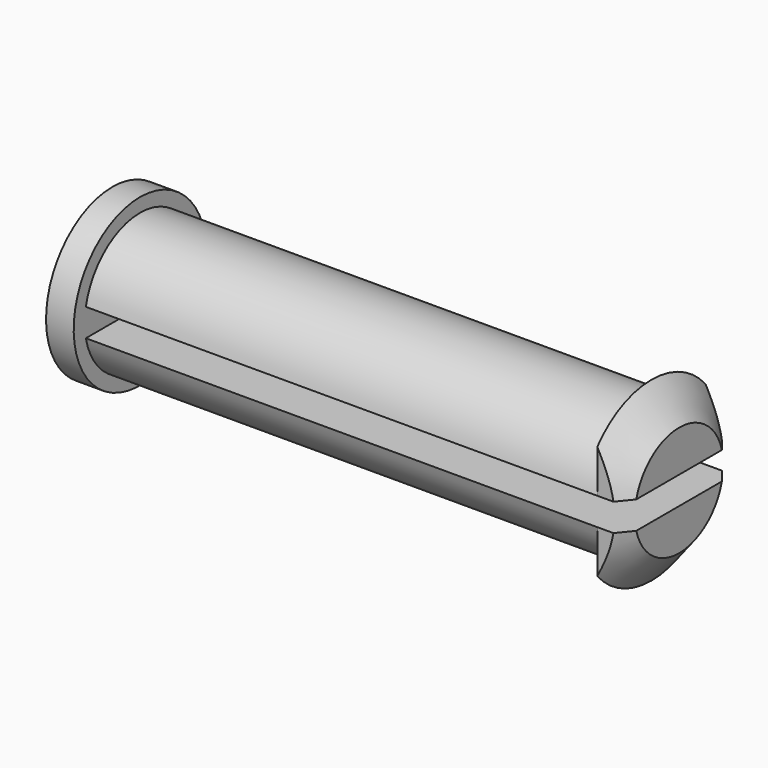
from build123d import *

# Parameters (mm, degrees)
SKETCH009_W     = 7.72
SKETCH009_H     = 1
POCKET001_DEPTH = 26
POCKET002_DEPTH = 25


with BuildPart() as part:
    # Sketch008 → Revolution (revolve)
    with BuildSketch(Plane.XZ):
        Polygon((-1, 0), (-1, 3), (0, 3), (0, 2.5), (18.5, 2.5), (18.5, 3.2), (19.5, 2), (19.5, 0), align=None)
    revolve(axis=Axis((0, 0, 0), (1, 0, 0)))

    # Sketch009 → Pocket001 (cut)
    with BuildSketch(Plane.YZ):
        Rectangle(SKETCH009_W, SKETCH009_H)
    extrude(amount=POCKET001_DEPTH, mode=Mode.SUBTRACT)

    # Sketch010 → Pocket002 (cut, symmetric)
    with BuildSketch(Plane.XY):
        Polygon((15.1, 2.44949), (23.12, 2.44949), (23.12, -2.44949), (15.1, -2.44949), (15.1, -3.86051), (30.32, -3.86051), (30.32, 7.01949), (15.1, 7.01949), align=None)
    extrude(amount=POCKET002_DEPTH, both=True, mode=Mode.SUBTRACT)


with BuildPart() as part_1:
    # Body002 placement: moved
    add(part.part.moved(Location((-9.25, -10.5, 11.5))))


solid = part_1.part
